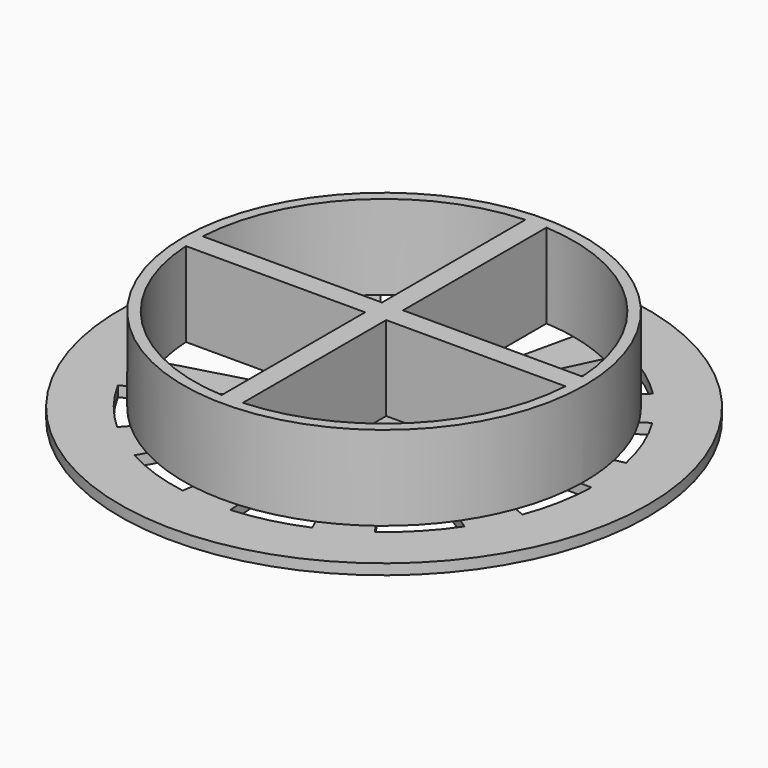
from build123d import *

# Parameters (mm, degrees)
SKETCH_R              = 25
PAD_DEPTH             = 1
SKETCH001_R           = 19
PAD001_DEPTH          = 8
POCKET_DEPTH          = 8
POLARPATTERN_COUNT    = 4
POCKET001_DEPTH       = 1
POLARPATTERN001_COUNT = 11


with BuildPart() as part:
    # Sketch → Pad (new body)
    with BuildSketch(Plane.XY):
        Circle(SKETCH_R)
    extrude(amount=PAD_DEPTH)

    # Sketch001 (on Face3 of Pad) → Pad001 (join)
    with BuildSketch(Plane.XY.offset(1)):
        Circle(SKETCH001_R)
    extrude(amount=PAD001_DEPTH)

    # Sketch002 (on Face5 of Pad001) → Pocket (cut)
    with BuildSketch(Plane.XY.offset(9)):
        with BuildLine():
            ThreePointArc((-1, 17.972201), (-12.727922, 12.727922), (-17.972201, 1))
            Line((-1, 1), (-17.972201, 1))
            Line((-1, 1), (-1, 17.972201))
        make_face()
    pocket = extrude(amount=-POCKET_DEPTH, mode=Mode.SUBTRACT)

    # PolarPattern: Pocket ×4 about axis
    polarpattern_axis = Axis((0, 0, 9), (0, 0, 1))
    for i in range(1, POLARPATTERN_COUNT):
        add(pocket.rotate(polarpattern_axis, i * 360 / POLARPATTERN_COUNT), mode=Mode.SUBTRACT)

    # Sketch003 (on Face2 of PolarPattern) → Pocket001 (cut)
    with BuildSketch(Plane(origin=(0, 0, 0), x_dir=(1, 0, 0), z_dir=(0, 0, -1))):
        with BuildLine():
            Line((0.558896, 6.977653), (1.396138, 19.95121))
            ThreePointArc((7.893916, 18.376237), (4.711307, 19.43717), (1.396138, 19.95121))
            Line((2.669717, 6.470905), (7.893916, 18.376237))
            ThreePointArc((2.669717, 6.470905), (1.63407, 6.806601), (0.558896, 6.977653))
        make_face()
    pocket001 = extrude(amount=-POCKET001_DEPTH, mode=Mode.SUBTRACT)

    # PolarPattern001: Pocket001 ×11 about axis
    polarpattern001_axis = Axis((0, 0, 0), (0, 0, -1))
    for i in range(1, POLARPATTERN001_COUNT):
        add(pocket001.rotate(polarpattern001_axis, i * 360 / POLARPATTERN001_COUNT), mode=Mode.SUBTRACT)


solid = part.part
